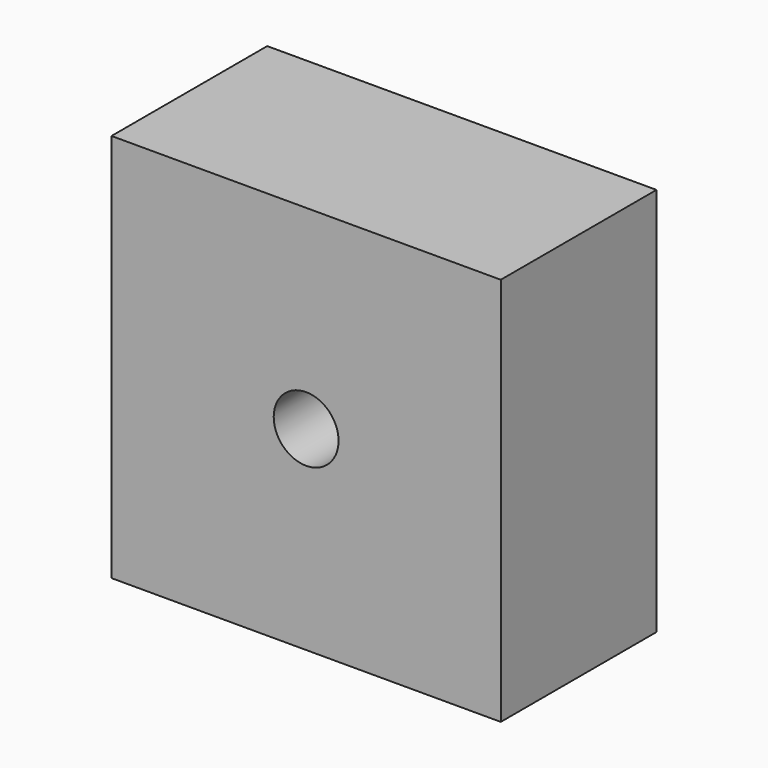
from build123d import *

# Parameters (mm, degrees)
F0_W     = 76.2
F0_H     = 76.2
F1_DEPTH = 19.05
F4_D     = 12.7
F4_DEPTH = 609.6


with BuildPart() as f1:
    # F0 (on Front) → F1 (new body, symmetric)
    with BuildSketch(Plane.XZ):
        Rectangle(F0_W, F0_H)
    extrude(amount=F1_DEPTH, both=True)

    # F4
    with Locations(Plane.XZ.offset(25.38984)):
        with Locations((0, 0)):
            Hole(F4_D / 2, depth=F4_DEPTH)


solid = f1.part
